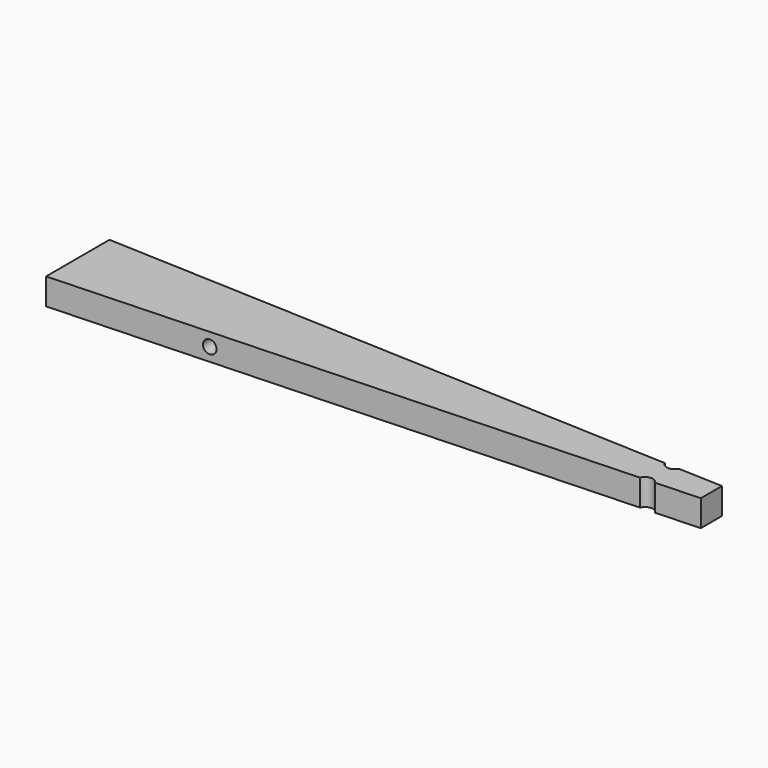
from build123d import *

# Parameters (mm, degrees)
F1_DEPTH = 12.7
F3_DEPTH = 25.4
F5_DEPTH = 50.8


with BuildPart() as f1:
    # F0 (on Top) → F1 (new body)
    with BuildSketch(Plane.XY):
        Polygon((221.4371956441, 15.4739474714), (-83.0981060863, 28.1739474714), (-83.0981060863, -9.9260525286), (221.4371956441, 2.7739474714), align=None)
    extrude(amount=F1_DEPTH)

    # F2 (on face) → F3 (cut)
    with BuildSketch(Plane.XY.offset(12.7)):
        with BuildLine():
            Line((200.0921744873, 16.3640963873), (193.1399459127, 16.6540243608))
            ThreePointArc((193.1399459127, 16.6540243608), (196.5220172711, 14.2539901577), (200.0921744873, 16.3640963873))
        make_face()
        with BuildLine():
            ThreePointArc((200.0921744873, 1.8837985555), (196.5220172711, 3.9939047851), (193.1399459127, 1.5938705819))
            Line((193.1399459127, 1.5938705819), (200.0921744873, 1.8837985555))
        make_face()
    extrude(amount=-F3_DEPTH, mode=Mode.SUBTRACT)

    # F4 (on face) → F5 (cut)
    with BuildSketch(Plane(origin=(0.2689588056, -6.4494055911, 0), x_dir=(0.9991315674, 0.0416666667, 0), z_dir=(0.0416666667, -0.9991315674, 0))):
        with BuildLine():
            ThreePointArc((-4.0645265004, 6.35), (-7.2395265004, 9.525), (-10.4145265004, 6.35))
            ThreePointArc((-10.4145265004, 6.35), (-7.2395265004, 3.175), (-4.0645265004, 6.35))
        make_face()
    extrude(amount=-F5_DEPTH, mode=Mode.SUBTRACT)


solid = f1.part
